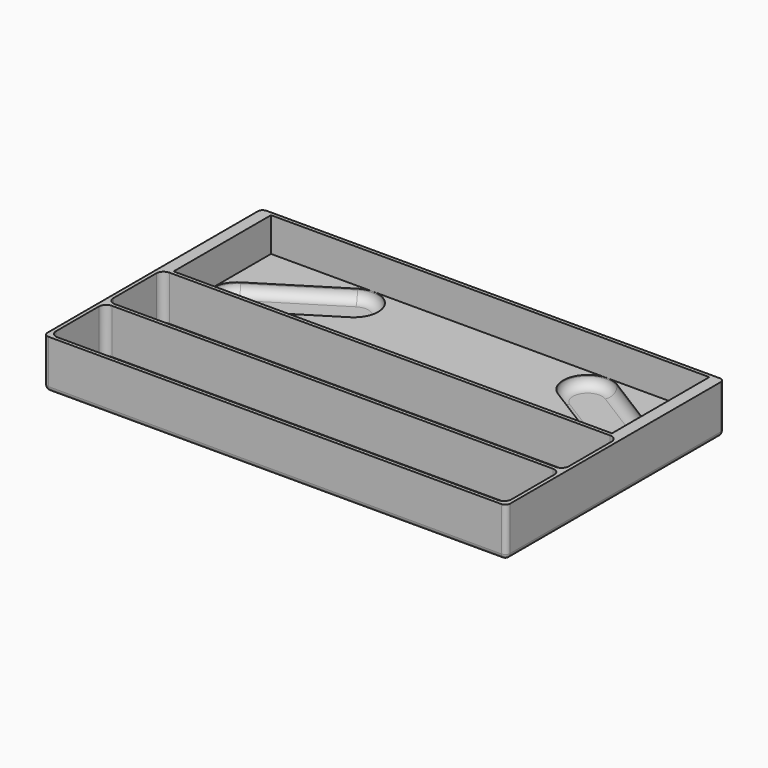
from build123d import *

# Parameters (mm, degrees)
SKETCH013_W            = 190
SKETCH013_H            = 112
PAD009_DEPTH           = 20
SKETCH014_W            = 180
SKETCH014_H            = 50
POCKET004_DEPTH        = 14
SKETCH015_W            = 187
SKETCH015_H            = 28
POCKET005_DEPTH        = 18.5
LINEARPATTERN007_COUNT = 2
LINEARPATTERN007_PITCH = 29.5
FILLET013_R            = 3
POCKET006_DEPTH        = 4.5
FILLET014_R            = 4
FILLET016_R            = 2


with BuildPart() as part:
    # Sketch013 → Pad009 (new body)
    with BuildSketch(Plane.XY):
        Rectangle(SKETCH013_W, SKETCH013_H)
    extrude(amount=PAD009_DEPTH)

    # Sketch014 (on DatumPlane) → Pocket004 (cut)
    with BuildSketch(Plane(origin=(0, 4.5, 20), x_dir=(1, 0, 0), z_dir=(0, 0, 1))):
        with Locations((0, 25)):
            Rectangle(SKETCH014_W, SKETCH014_H)
    extrude(amount=-POCKET004_DEPTH, mode=Mode.SUBTRACT)

    # Sketch015 (on DatumPlane) → Pocket005 (cut)
    with BuildSketch(Plane(origin=(0, 3, 20), x_dir=(1, 0, 0), z_dir=(0, 0, 1))):
        with Locations((0, -14)):
            Rectangle(SKETCH015_W, SKETCH015_H)
    pocket005 = extrude(amount=-POCKET005_DEPTH, mode=Mode.SUBTRACT)

    # LinearPattern007: Pocket005 ×2
    with Locations(*[(0, -i * LINEARPATTERN007_PITCH, 0) for i in range(1, LINEARPATTERN007_COUNT)]):
        add(pocket005, mode=Mode.SUBTRACT)

    # Fillet013
    fillet013_edges = [part.edges().sort_by_distance(p)[0] for p in [
        (93.5, 3, 10.75),
        (93.5, -26.5, 10.75),
        (-93.5, 3, 10.75),
        (-93.5, -26.5, 10.75),
        (-93.5, -25, 10.75),
        (-93.5, -54.5, 10.75),
        (93.5, -25, 10.75),
        (93.5, -54.5, 10.75),
    ]]
    fillet(fillet013_edges, radius=FILLET013_R)

    # Sketch016 (on DatumPlane) → Pocket006 (cut)
    with BuildSketch(Plane(origin=(0, 4.5, 6), x_dir=(1, 0, 0), z_dir=(0, 0, 1))):
        with BuildLine():
            ThreePointArc((-85.299989, 28.479983), (-88.479983, 14.700011), (-74.700011, 11.520017))
            Line((-74.700011, 11.520017), (-42.700011, 31.520017))
            ThreePointArc((-42.700011, 31.520017), (-39.520017, 45.299989), (-53.299989, 48.479983))
            Line((-53.299989, 48.479983), (-85.299989, 28.479983))
        make_face()
    pocket006 = extrude(amount=-POCKET006_DEPTH, mode=Mode.SUBTRACT)

    # Mirrored002: Pocket006 across Sketch016 V_Axis
    add(pocket006.mirror(Plane(origin=(0, 4.5, 6), x_dir=(0, 0, 1), z_dir=(1, 0, 0))), mode=Mode.SUBTRACT)

    # Fillet014
    fillet014_edges = [part.edges().sort_by_distance(p)[0] for p in [
        (88.479983, 19.200011, 1.5),
        (58.700011, 26.020017, 1.5),
        (39.520017, 49.799989, 1.5),
        (69.299989, 42.979983, 1.5),
        (-88.479983, 19.200011, 1.5),
        (-58.700011, 26.020017, 1.5),
        (-39.520017, 49.799989, 1.5),
        (-69.299989, 42.979983, 1.5),
    ]]
    fillet(fillet014_edges, radius=FILLET014_R)

    # Fillet016
    fillet016_edges = [part.edges().sort_by_distance(p)[0] for p in [
        (0, 56, 0),
        (95, 0, 0),
        (0, -56, 0),
        (-95, 0, 0),
        (-95, -56, 10),
        (-95, 56, 10),
        (95, 56, 10),
        (95, -56, 10),
    ]]
    fillet(fillet016_edges, radius=FILLET016_R)


with BuildPart() as part_1:
    # Body004 placement: moved
    add(part.part.moved(Location((0, -20, 0))))


solid = part_1.part
